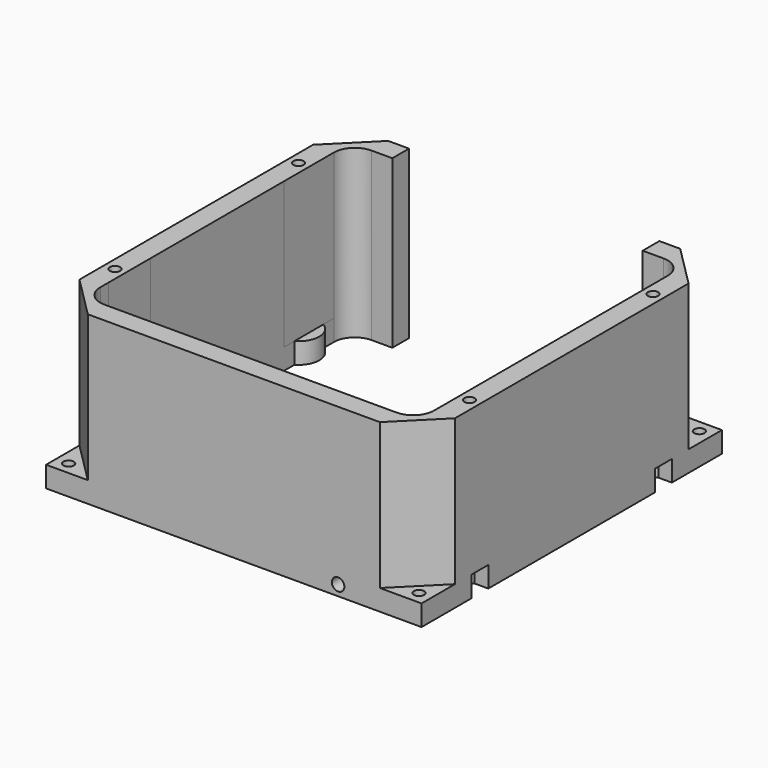
from build123d import *

# Parameters (mm, degrees)
SKETCH_W           = 180
SKETCH_H           = 180
SKETCH_R           = 2.5
PAD_DEPTH          = 80
SKETCH001_W        = 120
SKETCH001_H        = 80
POCKET_DEPTH       = 11
POCKET002_DEPTH    = 70
POLARPATTERN_COUNT = 4
POCKET003_DEPTH    = 10
SKETCH005_W        = 10
SKETCH005_H        = 30
SKETCH005_H_2      = 25
POCKET004_DEPTH    = 70
SKETCH002_R        = 3
POCKET007_DEPTH    = 11


with BuildPart() as part:
    # Sketch (on Sketch) → Pad (new body)
    with BuildSketch(Plane.XY):
        Rectangle(SKETCH_W, SKETCH_H)
        with Locations((-84, 84)):
            Circle(SKETCH_R, mode=Mode.SUBTRACT)
        with Locations((84, 84)):
            Circle(SKETCH_R, mode=Mode.SUBTRACT)
        with Locations((84, -84)):
            Circle(SKETCH_R, mode=Mode.SUBTRACT)
        with Locations((-84, -84)):
            Circle(SKETCH_R, mode=Mode.SUBTRACT)
        with Locations((-85, 55)):
            Circle(SKETCH_R, mode=Mode.SUBTRACT)
        with Locations((-85, -55)):
            Circle(SKETCH_R, mode=Mode.SUBTRACT)
        with Locations((85, -55)):
            Circle(SKETCH_R, mode=Mode.SUBTRACT)
        with Locations((85, 55)):
            Circle(SKETCH_R, mode=Mode.SUBTRACT)
        with BuildLine():
            Line((-70, 80), (70, 80))
            ThreePointArc((80, 70), (77.071068, 77.071068), (70, 80))
            Line((80, 70), (80, 63.660254))
            ThreePointArc((80, 63.660254), (75, 55), (80, 46.339746))
            Line((80, 46.339746), (80, -46.339746))
            ThreePointArc((80, -46.339746), (75, -55), (80, -63.660254))
            Line((80, -63.660254), (80.000001, -70))
            ThreePointArc((70.000001, -80), (77.071069, -77.071068), (80.000001, -70))
            Line((70.000001, -80), (-69.999999, -80))
            ThreePointArc((-79.999999, -70), (-77.071066, -77.071068), (-69.999999, -80))
            Line((-79.999999, -70), (-79.999999, -63.660253))
            ThreePointArc((-79.999999, -63.660253), (-75, -55), (-79.999999, -46.339747))
            Line((-79.999999, -46.339747), (-79.999999, 46.339747))
            ThreePointArc((-79.999999, 46.339747), (-75, 55), (-79.999999, 63.660253))
            Line((-79.999999, 63.660253), (-79.999999, 69.994765))
            ThreePointArc((-70, 80), (-77.072918, 77.069217), (-79.999999, 69.994765))
        make_face(mode=Mode.SUBTRACT)
    extrude(amount=PAD_DEPTH)

    # Sketch001 (on Face1 of Pad) → Pocket (cut)
    with BuildSketch(Plane(origin=(0, 90, 0), x_dir=(-1, 0, 0), z_dir=(0, 1, 0))):
        with Locations((0, 40)):
            Rectangle(SKETCH001_W, SKETCH001_H)
    extrude(amount=-POCKET_DEPTH, mode=Mode.SUBTRACT)

    # Sketch003 → Pocket002 (cut)
    with BuildSketch(Plane.XY.offset(80)):
        Polygon((-90, 90), (-70, 90), (-90, 70), align=None)
    pocket002 = extrude(amount=-POCKET002_DEPTH, mode=Mode.SUBTRACT)

    # PolarPattern: Pocket002 ×4 about axis
    polarpattern_axis = Axis((0, 0, 80), (0, 0, 1))
    for i in range(1, POLARPATTERN_COUNT):
        add(pocket002.rotate(polarpattern_axis, i * 360 / POLARPATTERN_COUNT), mode=Mode.SUBTRACT)

    # Sketch004 (on Face2 of PolarPattern) → Pocket003 (cut)
    with BuildSketch(Plane(origin=(0, 0, 0), x_dir=(1, 0, 0), z_dir=(0, 0, -1))):
        Polygon((-90, 60), (-83.5, 60), (-80, 57), (-80, 53), (-83.5, 50), (-90, 50), align=None)
        Polygon((83.5, 60), (90, 60), (90, 50), (83.5, 50), (80, 53), (80, 57), align=None)
        Polygon((83.5, -50), (90, -50), (90, -60), (83.5, -60), (80, -57), (80, -53), align=None)
        Polygon((-90, -50), (-83.5, -50), (-80, -53), (-80, -57), (-83.5, -60), (-90, -60), align=None)
    extrude(amount=-POCKET003_DEPTH, mode=Mode.SUBTRACT)

    # Sketch005 (on Face6 of Pocket003) → Pocket004 (cut)
    with BuildSketch(Plane.XY.offset(10)):
        with Locations((-75, 55)):
            Rectangle(SKETCH005_W, SKETCH005_H)
        with Locations((75, 55)):
            Rectangle(SKETCH005_W, SKETCH005_H)
        with Locations((75, -55)):
            Rectangle(SKETCH005_W, SKETCH005_H)
        with Locations((-75, -52.5)):
            Rectangle(SKETCH005_W, SKETCH005_H_2)
    extrude(amount=POCKET004_DEPTH, mode=Mode.SUBTRACT)

    # Sketch002 (on Face30 of Pocket004) → Pocket007 (cut)
    with BuildSketch(Plane(origin=(0, -80, 0), x_dir=(-1, 0, 0), z_dir=(0, 1, 0))):
        with Locations((-50, 5)):
            Circle(SKETCH002_R)
    extrude(amount=-POCKET007_DEPTH, mode=Mode.SUBTRACT)


solid = part.part
